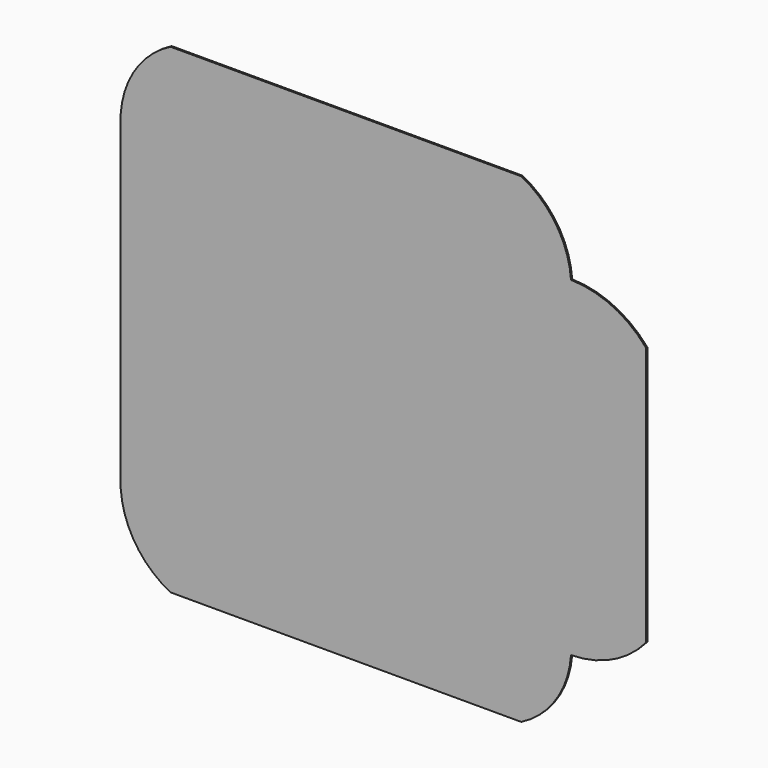
from build123d import *

# Parameters (mm, degrees)
F0_W     = 300
F0_H     = 220
F1_DEPTH = 1


with BuildPart() as f1:
    # F0 (on Front) → F1 (new body)
    with BuildSketch(Plane.XZ):
        with BuildLine():
            Line((85.809135, 104.238631), (-147.819877, 104.238631))
            ThreePointArc((-147.819877, 104.238631), (-171.001324, 83.611616), (-181.005371, 54.238631))
            Line((-181.005371, 54.238631), (118.994629, 54.238631))
            ThreePointArc((118.994629, 54.238631), (108.990582, 83.611616), (85.809135, 104.238631))
        make_face()
        with Locations((-31.005371, -55.761369)):
            Rectangle(F0_W, F0_H)
        with BuildLine():
            ThreePointArc((168.994629, 30.675642), (146.5507, 47.881048), (118.994629, 54.238631))
            Line((118.994629, 54.238631), (118.994629, -165.761369))
            ThreePointArc((118.994629, -165.761369), (146.5507, -159.403787), (168.994629, -142.198381))
            Line((168.994629, -142.198381), (168.994629, 30.675642))
        make_face()
        with BuildLine():
            Line((118.994629, -165.761369), (-181.005371, -165.761369))
            ThreePointArc((-181.005371, -165.761369), (-171.001324, -195.134355), (-147.819877, -215.761369))
            Line((-147.819877, -215.761369), (85.809135, -215.761369))
            ThreePointArc((85.809135, -215.761369), (108.990582, -195.134355), (118.994629, -165.761369))
        make_face()
    extrude(amount=F1_DEPTH)


solid = f1.part
